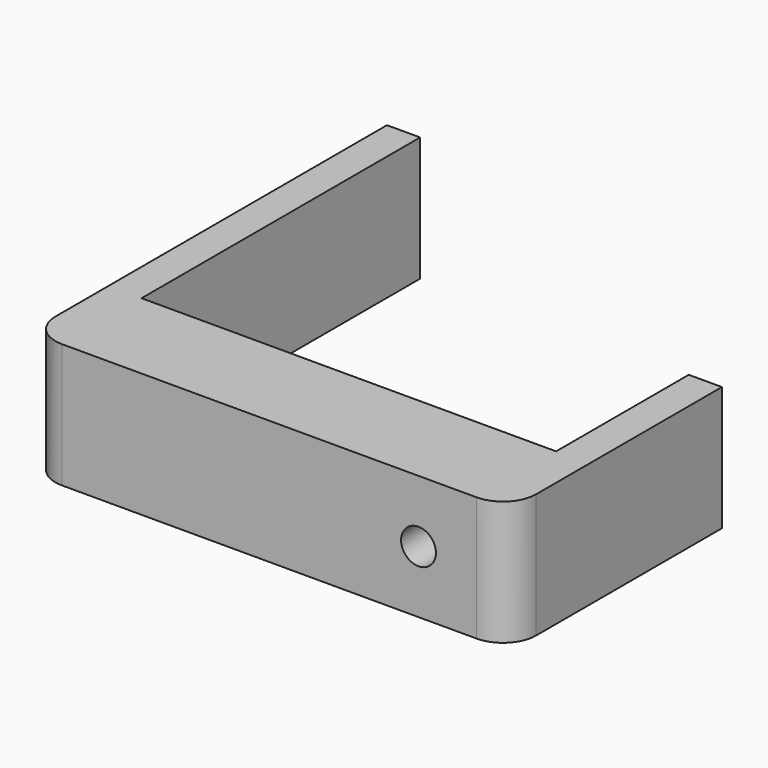
from build123d import *

# Parameters (mm, degrees)
PAD_DEPTH       = 15
SKETCH001_R     = 2.1
POCKET_DEPTH    = 54.001
SKETCH002_R     = 3.55
POCKET001_DEPTH = 4


with BuildPart() as part:
    # Sketch → Pad (new body)
    with BuildSketch(Plane.XY):
        with BuildLine():
            Line((-25, 12), (25, 12))
            Line((25, 12), (25, 32))
            Line((25, 32), (29, 32))
            Line((29, 32), (29, 3.998833))
            ThreePointArc((25.001167, 0), (27.828769, 1.171231), (29, 3.998833))
            Line((25.001167, 0), (-24.998833, 0))
            ThreePointArc((-29, 4.001167), (-27.828085, 1.171915), (-24.998833, 0))
            Line((-29, 4.001167), (-29, 54))
            Line((-29, 54), (-25, 54))
            Line((-25, 54), (-25, 12))
        make_face()
    extrude(amount=PAD_DEPTH)

    # Sketch001 → Pocket (cut, through all)
    with BuildSketch(Plane.XZ):
        with Locations((18, 7.5)):
            Circle(SKETCH001_R)
    extrude(amount=-POCKET_DEPTH, mode=Mode.SUBTRACT)

    # Sketch002 → Pocket001 (cut)
    with BuildSketch(Plane(origin=(0, 12, 0), x_dir=(-1, 0, 0), z_dir=(0, 1, 0))):
        with Locations((-18, 7.5)):
            Circle(SKETCH002_R)
    extrude(amount=-POCKET001_DEPTH, mode=Mode.SUBTRACT)


solid = part.part
